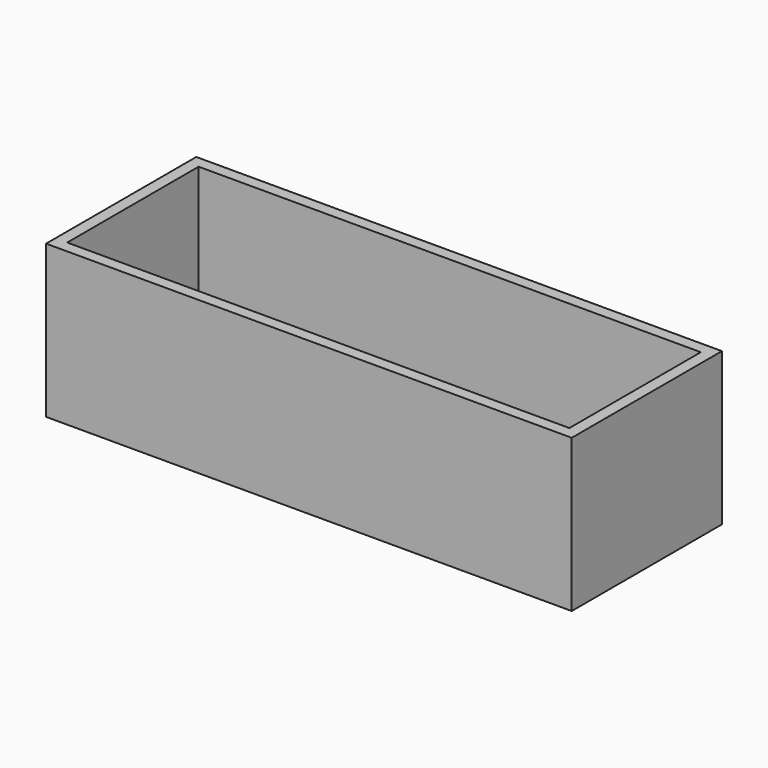
from build123d import *

# Parameters (mm, degrees)
F0_W     = 1120
F0_H     = 400
F0_W_2   = 1070
F0_H_2   = 350
F1_DEPTH = 320
F2_W     = 1120
F2_H     = 400
F2_W_2   = 1070
F2_H_2   = 350
F3_DEPTH = 5


with BuildPart() as f1:
    # F0 (on Top) → F1 (new body)
    with BuildSketch(Plane.XY):
        Rectangle(F0_W, F0_H)
        Rectangle(F0_W_2, F0_H_2, mode=Mode.SUBTRACT)
    extrude(amount=F1_DEPTH)

    # F2 (on face) → F3 (join)
    with BuildSketch(Plane(origin=(0, 0, 0), x_dir=(1, 0, 0), z_dir=(0, 0, -1))):
        Rectangle(F2_W, F2_H)
        Rectangle(F2_W_2, F2_H_2, mode=Mode.SUBTRACT)
        Rectangle(F2_W_2, F2_H_2)
    extrude(amount=F3_DEPTH)


solid = f1.part
